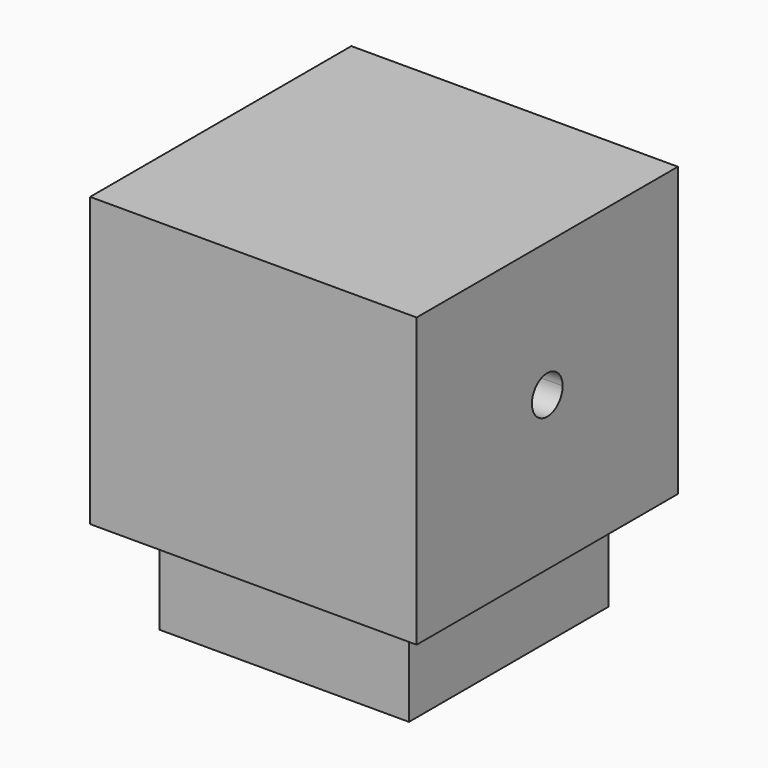
from build123d import *

# Parameters (mm, degrees)
F0_W     = 13
F0_H     = 13
F1_DEPTH = 20
F2_W     = 13
F2_H     = 13
F3_DEPTH = 15
F5_DEPTH = 7
F7_DEPTH = 8
F9_DEPTH = 17


with BuildPart() as f1:
    # F0 (on Top) → F1 (new body)
    with BuildSketch(Plane.XY):
        with Locations((6.5, 6.5)):
            Rectangle(F0_W, F0_H)
    extrude(amount=F1_DEPTH)

    # F2 (on face) → F3 (join)
    with BuildSketch(Plane.XY.offset(20)):
        Polygon((-2, 15), (-2, 0), (-2, -2), (15, -2), (15, 15), align=None)
        with Locations((6.5, 6.5)):
            Rectangle(F2_W, F2_H, mode=Mode.SUBTRACT)
    extrude(amount=-F3_DEPTH)

    # F4 (on face) → F5 (cut)
    with BuildSketch(Plane.YZ.offset(15)):
        with BuildLine():
            ThreePointArc((7.5, 13), (7.207107, 13.707107), (6.5, 14))
            ThreePointArc((6.5, 14), (5.792893, 12.292893), (7.5, 13))
        make_face()
    extrude(amount=-F5_DEPTH, mode=Mode.SUBTRACT)

    # F6 (on face) → F7 (cut)
    with BuildSketch(Plane(origin=(-2, 0, 0), x_dir=(0, -1, 0), z_dir=(-1, 0, 0))):
        with BuildLine():
            ThreePointArc((-4, 16), (-4.732233, 17.767767), (-6.5, 18.5))
            ThreePointArc((-6.5, 18.5), (-8.267767, 14.232233), (-4, 16))
        make_face()
    extrude(amount=-F7_DEPTH, mode=Mode.SUBTRACT)

    # F8 (on face) → F9 (cut)
    with BuildSketch(Plane(origin=(0, 0, 0), x_dir=(1, 0, 0), z_dir=(0, 0, -1))):
        with BuildLine():
            ThreePointArc((7.5, -6.5), (4.5, -3.5), (1.5, -6.5))
            ThreePointArc((1.5, -6.5), (4.5, -9.5), (7.5, -6.5))
        make_face()
    extrude(amount=-F9_DEPTH, mode=Mode.SUBTRACT)


solid = f1.part
